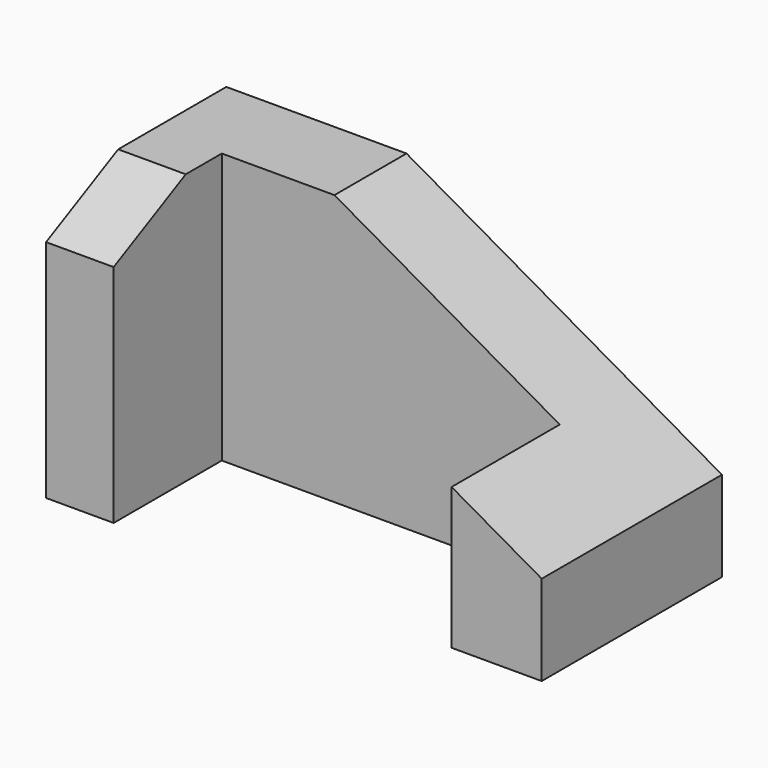
from build123d import *

# Parameters (mm, degrees)
F2_DEPTH = 50
F3_W     = 75
F3_H     = 30
F4_DEPTH = 98
F6_DEPTH = 105.3


with BuildPart() as f2:
    # F1 (on Front) → F2 (new body)
    with BuildSketch(Plane.XZ):
        Polygon((0, 60), (0, 0), (110, 0), (110, 20), (40, 60), align=None)
    extrude(amount=F2_DEPTH)

    # F3 (on face) → F4 (cut)
    with BuildSketch(Plane(origin=(0, 0, 0), x_dir=(1, 0, 0), z_dir=(0, 0, -1))):
        with Locations((52.5, 35)):
            Rectangle(F3_W, F3_H)
    extrude(amount=-F4_DEPTH, mode=Mode.SUBTRACT)

    # F5 (on face) → F6 (cut)
    with BuildSketch(Plane(origin=(0, 0, 0), x_dir=(0, -1, 0), z_dir=(-1, 0, 0))):
        Polygon((50, 60), (30, 60), (50, 50), align=None)
    extrude(amount=-F6_DEPTH, mode=Mode.SUBTRACT)


solid = f2.part
